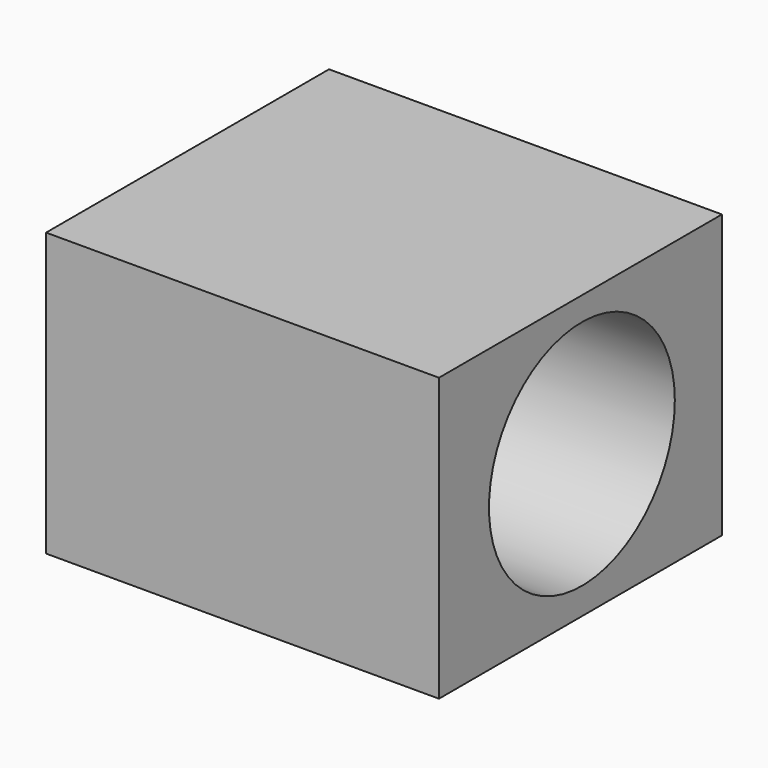
from build123d import *

# Parameters (mm, degrees)
F0_W     = 135.365754
F0_H     = 108.153057
F0_R     = 44.4552
F1_DEPTH = 150.368


with BuildPart() as f1:
    # F0 (on Right) → F1 (new body)
    with BuildSketch(Plane.YZ):
        with Locations((-0.697762, -0.581467)):
            Rectangle(F0_W, F0_H)
        Circle(F0_R, mode=Mode.SUBTRACT)
    extrude(amount=F1_DEPTH)


solid = f1.part
